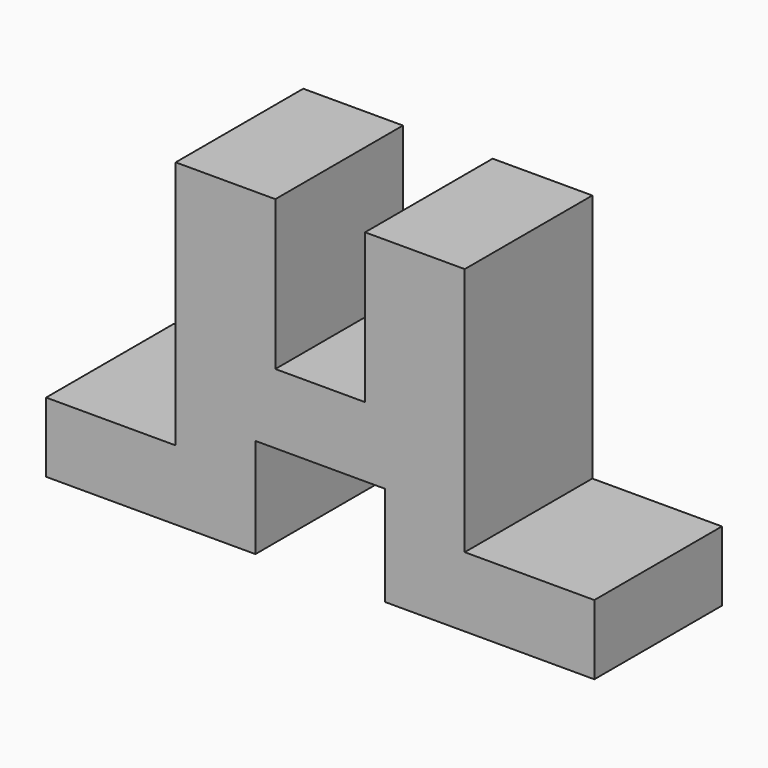
from build123d import *

# Parameters (mm, degrees)
F1_DEPTH = 406.4


with BuildPart() as f1:
    # F0 (on Front) → F1 (new body)
    with BuildSketch(Plane.XZ):
        Polygon((-533.4, 0), (0, 0), (0, 177.8), (-330.2, 177.8), (-330.2, 812.8), (-584.2, 812.8), (-584.2, 431.8), (-812.8, 431.8), (-812.8, 812.8), (-1066.8, 812.8), (-1066.8, 177.8), (-1397, 177.8), (-1397, 0), (-863.6, 0), (-863.6, 254), (-698.5, 254), (-533.4, 254), align=None)
    extrude(amount=F1_DEPTH)


solid = f1.part
